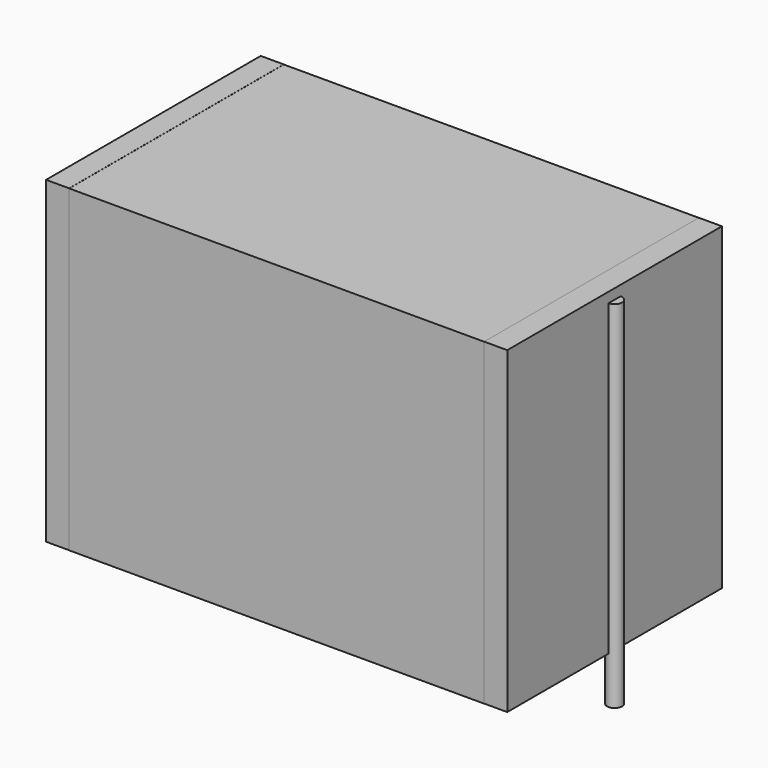
from build123d import *

# Parameters (mm, degrees)
SKETCH_W          = 24.75
SKETCH_H          = 16
PAD_DEPTH         = 19
SKETCH001_R       = 0.45
PAD001_DEPTH      = 18
PAD001_DEPTH_BACK = 3.2
SKETCH002_W       = 1.375
SKETCH002_H       = 16
PAD002_DEPTH      = 19


with BuildPart() as pad:
    # Sketch → Pad (new body)
    with BuildSketch(Plane.XY.offset(0.1)):
        with Locations((13.75, 0)):
            Rectangle(SKETCH_W, SKETCH_H)
    extrude(amount=PAD_DEPTH)


with BuildPart() as pad001:
    # Sketch001 → Pad001 (new body, two sides)
    with BuildSketch(Plane.XY.offset(0.5)) as pad001_sk:
        Circle(SKETCH001_R)
        with Locations((27.5, 0)):
            Circle(SKETCH001_R)
    extrude(amount=PAD001_DEPTH)
    extrude(pad001_sk.sketch, amount=-PAD001_DEPTH_BACK)


with BuildPart() as pad002:
    # Sketch002 → Pad002 (new body)
    with BuildSketch(Plane.XY.offset(0.105)):
        with Locations((0.6875, 0)):
            Rectangle(SKETCH002_W, SKETCH002_H)
        with Locations((26.8125, 0)):
            Rectangle(SKETCH002_W, SKETCH002_H)
    extrude(amount=PAD002_DEPTH)


solid = Compound([pad.part, pad001.part, pad002.part])
